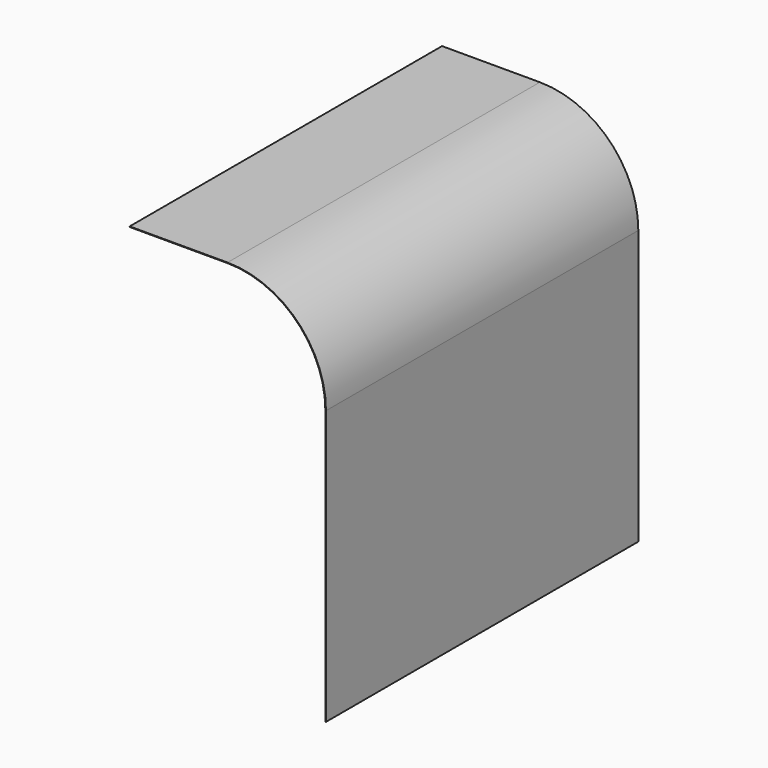
from build123d import *

# Parameters (mm, degrees)
F1_DEPTH = 997.5


with BuildPart() as f1:
    # F0 (on Front) → F1 (new body)
    with BuildSketch(Plane.XZ):
        with BuildLine():
            Line((-450, 0), (-448.5, 0))
            Line((-448.5, 0), (-448.5, 700))
            ThreePointArc((-448.5, 700), (-522.162645, 877.837355), (-700, 951.5))
            Line((-700, 951.5), (-950, 951.5))
            Line((-950, 951.5), (-950, 950))
            Line((-950, 950), (-700, 950))
            ThreePointArc((-700, 950), (-523.223305, 876.776695), (-450, 700))
            Line((-450, 700), (-450, 0))
        make_face()
    extrude(amount=F1_DEPTH)


solid = f1.part
